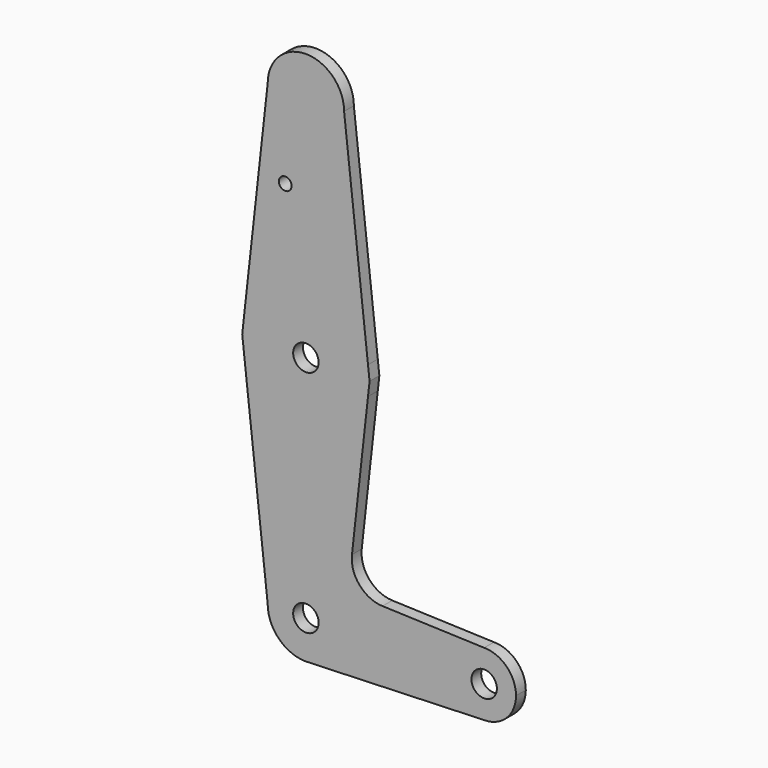
from build123d import *

# Parameters (mm, degrees)
F0_R     = 3.175
F0_R_2   = 1.5875
F1_DEPTH = 3.048


with BuildPart() as f1:
    # F0 (on Front) → F1 (new body)
    with BuildSketch(Plane.XZ):
        with BuildLine():
            ThreePointArc((-9.525, 114.3), (0, 104.775), (9.525, 114.3))
            ThreePointArc((9.525, 114.3), (0, 123.825), (-9.525, 114.3))
        make_face()
        with Locations((0, 114.3)):
            Circle(F0_R, mode=Mode.SUBTRACT)
        with Locations((0, 114.3)):
            Circle(F0_R)
        with BuildLine():
            Line((15.487804878, 60.6347560976), (9.525, 114.3))
            ThreePointArc((9.525, 114.3), (0, 104.775), (-9.525, 114.3))
            Line((-9.525, 114.3), (-15.487804878, 60.6347560976))
            ThreePointArc((-15.487804878, 60.6347560976), (0, 73.025), (15.487804878, 60.6347560976))
        make_face()
        with Locations((-5.14593767, 93.6752)):
            Circle(F0_R_2, mode=Mode.SUBTRACT)
        with BuildLine():
            Line((15.875, 57.15), (15.487804878, 60.6347560976))
            ThreePointArc((15.487804878, 60.6347560976), (0, 73.025), (-15.487804878, 60.6347560976))
            Line((-15.487804878, 60.6347560976), (-15.875, 57.15))
            Line((-15.875, 57.15), (-15.487804878, 53.6652439024))
            ThreePointArc((-15.487804878, 53.6652439024), (0, 41.275), (15.487804878, 53.6652439024))
            Line((15.487804878, 53.6652439024), (15.875, 57.15))
        make_face()
        with Locations((0, 57.15)):
            Circle(F0_R, mode=Mode.SUBTRACT)
        with BuildLine():
            Line((11.487860175, 17.6657415748), (15.487804878, 53.6652439024))
            ThreePointArc((15.487804878, 53.6652439024), (0, 41.275), (-15.487804878, 53.6652439024))
            Line((-15.487804878, 53.6652439024), (-9.525, 0))
            ThreePointArc((-9.525, 0), (0, 9.525), (9.525, 0))
            ThreePointArc((9.525, 0), (6.9712901065, -6.4905114784), (0.6794904459, -9.5007324841))
            Line((0.6794904459, -9.5007324841), (44.45, -7.9375))
            ThreePointArc((44.45, -7.9375), (36.5125, 0), (44.45, 7.9375))
            Line((44.45, 7.9375), (19.1056798365, 8.8426542916))
            ThreePointArc((19.1056798365, 8.8426542916), (13.3718253887, 11.5922081466), (11.487860175, 17.6657415748))
        make_face()
        with BuildLine():
            ThreePointArc((9.525, 0), (0, 9.525), (-9.525, 0))
            ThreePointArc((-9.525, 0), (-6.7351920908, -6.7351920908), (0, -9.525))
            Line((0, -9.525), (0.6794904459, -9.5007324841))
            ThreePointArc((0.6794904459, -9.5007324841), (6.9712901065, -6.4905114784), (9.525, 0))
        make_face()
        Circle(F0_R, mode=Mode.SUBTRACT)
        with BuildLine():
            ThreePointArc((52.3875, 0), (50.0626600757, 5.6126600757), (44.45, 7.9375))
            ThreePointArc((44.45, 7.9375), (36.5125, 0), (44.45, -7.9375))
            ThreePointArc((44.45, -7.9375), (50.0626600757, -5.6126600757), (52.3875, 0))
        make_face()
        with Locations((44.45, 0)):
            Circle(F0_R, mode=Mode.SUBTRACT)
    extrude(amount=F1_DEPTH)


solid = f1.part
